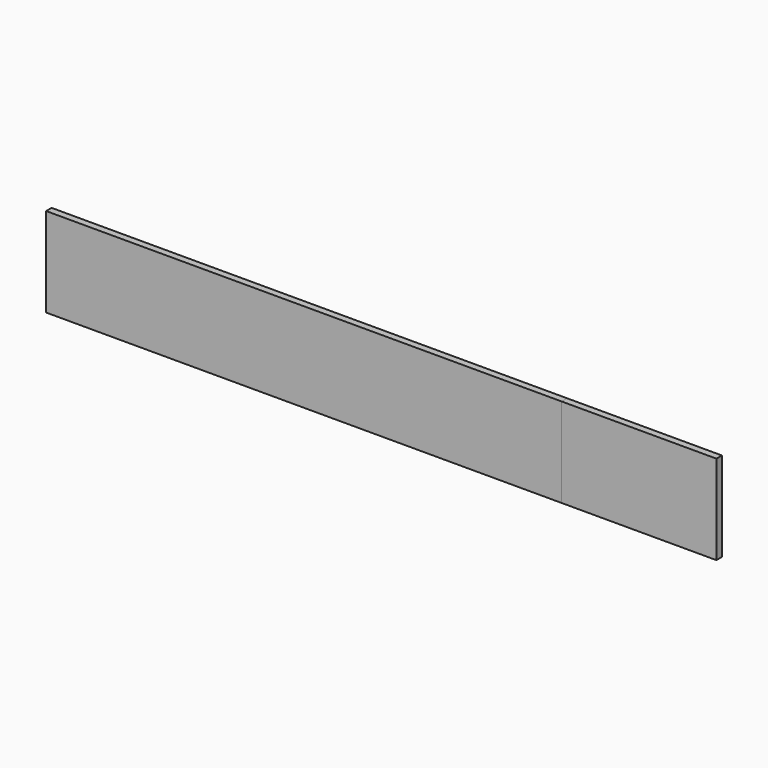
from build123d import *

# Parameters (mm, degrees)
F0_W     = 195
F0_H     = 26
F1_DEPTH = 2
F2_DEPTH = 150
F3_DEPTH = 45


with BuildPart() as f1:
    # F0 (on Front) → F1 (new body)
    with BuildSketch(Plane.XZ):
        with Locations((0, -13)):
            Rectangle(F0_W, F0_H)
    extrude(amount=F1_DEPTH)


with BuildPart() as f2:
    # F2 (new): a face of the model
    f2_faces = [f1.part.faces().sort_by_distance(p)[0] for p in [
        (-97.5, -1, -13),
    ]]
    extrude(f2_faces, amount=-F2_DEPTH)


with BuildPart() as f3:
    # F3 (new, through all): a face of the model
    f3_faces = [f1.part.faces().sort_by_distance(p)[0] for p in [
        (97.5, -1, -13),
    ]]
    extrude(f3_faces, amount=-F3_DEPTH)


solid = Compound([f1.part, f2.part, f3.part])
